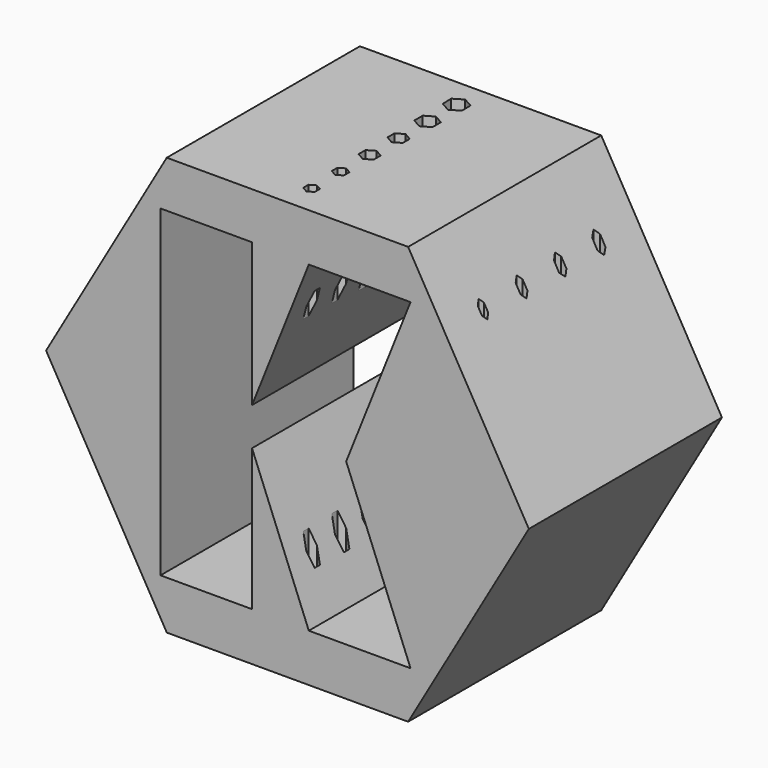
from build123d import *

# Parameters (mm, degrees)
F1_DEPTH = 63.5
F3_DEPTH = 57.15
F4_DEPTH = 127
F5_DEPTH = 101.6


with BuildPart() as f1:
    # F0 (on Front) → F1 (new body, symmetric)
    with BuildSketch(Plane.XZ):
        Polygon((127, 0), (63.5, 109.985226), (-63.5, 109.985226), (-127, 0), (-63.5, -109.985226), (63.5, -109.985226), align=None)
        Polygon((-66.799852, -84.545206), (-66.799852, 85.417562), (-18.633867, 85.417562), (-18.633867, 9.979562), (11.241462, 84.802525), (64.756104, 84.802525), (30.896133, 0), (64.756104, -84.802525), (11.241462, -84.802525), (-18.633867, -9.979562), (-18.633867, -84.545206), align=None, mode=Mode.SUBTRACT)
    extrude(amount=F1_DEPTH, both=True)

    # F2 (on Top) → F3 (cut)
    with BuildSketch(Plane.XY):
        Polygon((-81.175185, 15.08125), (-83.924815, 15.08125), (-85.299631, 12.7), (-83.924815, 10.31875), (-81.175185, 10.31875), (-79.800369, 12.7), align=None)
        Polygon((-81.250962, -10.45), (-83.849038, -10.45), (-85.148076, -12.7), (-83.849038, -14.95), (-81.250962, -14.95), (-79.951924, -12.7), align=None)
        Polygon((-81.404321, -36.115625), (-83.695679, -36.115625), (-84.841359, -38.1), (-83.695679, -40.084375), (-81.404321, -40.084375), (-80.258641, -38.1), align=None)
        Polygon((-85.436751, 37.998921), (-83.905839, 35.549461), (-81.019088, 35.650539), (-79.663249, 38.201079), (-81.194161, 40.650539), (-84.080912, 40.549461), align=None)
        Polygon((79.663249, 38.201079), (81.019088, 35.650539), (83.905839, 35.549461), (85.436751, 37.998921), (84.080912, 40.549461), (81.194161, 40.650539), align=None)
        Polygon((83.924815, 10.31875), (85.299631, 12.7), (83.924815, 15.08125), (81.175185, 15.08125), (79.800369, 12.7), (81.175185, 10.31875), align=None)
        Polygon((81.250962, -10.45), (79.951924, -12.7), (81.250962, -14.95), (83.849038, -14.95), (85.148076, -12.7), (83.849038, -10.45), align=None)
        Polygon((81.404321, -40.084375), (83.695679, -40.084375), (84.841359, -38.1), (83.695679, -36.115625), (81.404321, -36.115625), (80.258641, -38.1), align=None)
    extrude(amount=-F3_DEPTH, mode=Mode.SUBTRACT)

    # F2 (on Top) → F4 (cut)
    with BuildSketch(Plane.XY):
        Polygon((-85.436751, 37.998921), (-83.905839, 35.549461), (-81.019088, 35.650539), (-79.663249, 38.201079), (-81.194161, 40.650539), (-84.080912, 40.549461), align=None)
        Polygon((-81.175185, 15.08125), (-83.924815, 15.08125), (-85.299631, 12.7), (-83.924815, 10.31875), (-81.175185, 10.31875), (-79.800369, 12.7), align=None)
        Polygon((-81.250962, -10.45), (-83.849038, -10.45), (-85.148076, -12.7), (-83.849038, -14.95), (-81.250962, -14.95), (-79.951924, -12.7), align=None)
        Polygon((-81.404321, -36.115625), (-83.695679, -36.115625), (-84.841359, -38.1), (-83.695679, -40.084375), (-81.404321, -40.084375), (-80.258641, -38.1), align=None)
        Polygon((81.250962, -10.45), (79.951924, -12.7), (81.250962, -14.95), (83.849038, -14.95), (85.148076, -12.7), (83.849038, -10.45), align=None)
        Polygon((81.404321, -40.084375), (83.695679, -40.084375), (84.841359, -38.1), (83.695679, -36.115625), (81.404321, -36.115625), (80.258641, -38.1), align=None)
        Polygon((83.924815, 10.31875), (85.299631, 12.7), (83.924815, 15.08125), (81.175185, 15.08125), (79.800369, 12.7), (81.175185, 10.31875), align=None)
        Polygon((79.663249, 38.201079), (81.019088, 35.650539), (83.905839, 35.549461), (85.436751, 37.998921), (84.080912, 40.549461), (81.194161, 40.650539), align=None)
        Polygon((0.12826, 41.979922), (5.062896, 44.977038), (4.934636, 50.749116), (-0.12826, 53.524078), (-5.062896, 50.526962), (-4.934636, 44.754884), align=None)
        Polygon((-0.000787, 23.18495), (4.762107, 25.933899), (4.762893, 31.43316), (0.000787, 34.183472), (-4.762107, 31.434523), (-4.762893, 25.935262), align=None)
        Polygon((4, 7.29941), (4, 11.918212), (0, 14.227613), (-4, 11.918212), (-4, 7.29941), (0, 4.990009), align=None)
        Polygon((-0.000656, -14.049307), (3.968422, -11.758516), (3.969078, -7.175798), (0.000656, -4.883871), (-3.968422, -7.174662), (-3.969078, -11.75738), align=None)
        Polygon((3.175, -30.375076), (3.175, -26.708902), (0, -24.875815), (-3.175, -26.708902), (-3.175, -30.375076), (0, -32.208163), align=None)
        Polygon((3, -49.34944), (3, -45.885338), (0, -44.153287), (-3, -45.885338), (-3, -49.34944), (0, -51.081491), align=None)
    extrude(amount=F4_DEPTH, mode=Mode.SUBTRACT)

    # F2 (on Top) → F5 (cut)
    with BuildSketch(Plane.XY):
        Polygon((-0.000656, -14.049307), (3.968422, -11.758516), (3.969078, -7.175798), (0.000656, -4.883871), (-3.968422, -7.174662), (-3.969078, -11.75738), align=None)
        Polygon((3.175, -30.375076), (3.175, -26.708902), (0, -24.875815), (-3.175, -26.708902), (-3.175, -30.375076), (0, -32.208163), align=None)
        Polygon((4, 7.29941), (4, 11.918212), (0, 14.227613), (-4, 11.918212), (-4, 7.29941), (0, 4.990009), align=None)
        Polygon((-0.000787, 23.18495), (4.762107, 25.933899), (4.762893, 31.43316), (0.000787, 34.183472), (-4.762107, 31.434523), (-4.762893, 25.935262), align=None)
        Polygon((3, -49.34944), (3, -45.885338), (0, -44.153287), (-3, -45.885338), (-3, -49.34944), (0, -51.081491), align=None)
        Polygon((0.12826, 41.979922), (5.062896, 44.977038), (4.934636, 50.749116), (-0.12826, 53.524078), (-5.062896, 50.526962), (-4.934636, 44.754884), align=None)
    extrude(amount=-F5_DEPTH, mode=Mode.SUBTRACT)


solid = f1.part
